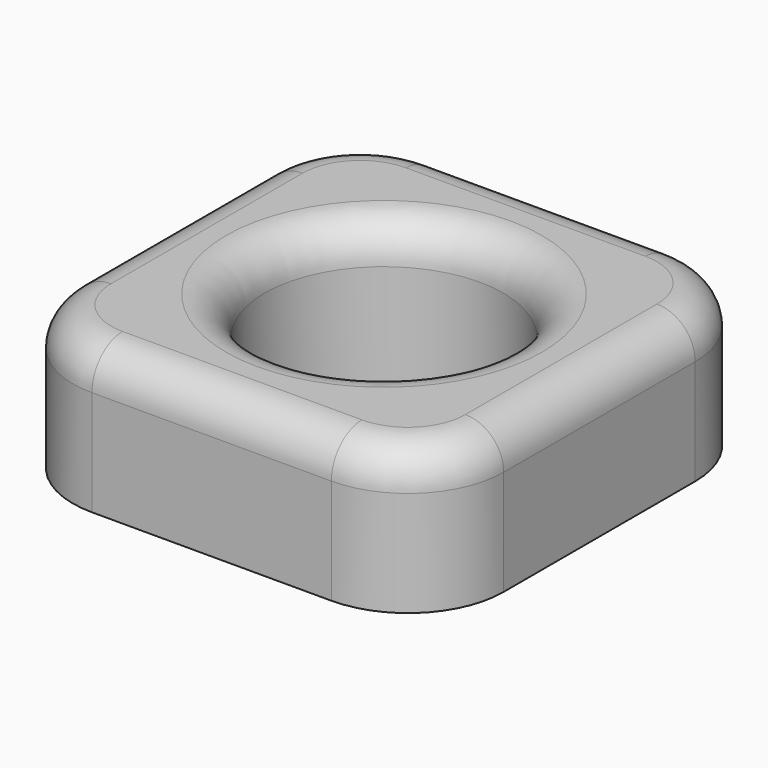
from build123d import *

# Parameters (mm, degrees)
F0_W     = 28.575
F0_H     = 28.575
F1_DEPTH = 9.525
F2_R     = 7.9375
F3_DEPTH = 9.526
F4_R     = 6.35
F5_R     = 2.54


with BuildPart() as f1:
    # F0 (on Top) → F1 (new body)
    with BuildSketch(Plane.XY):
        Rectangle(F0_W, F0_H)
    extrude(amount=F1_DEPTH)

    # F2 (on face) → F3 (cut, through all)
    with BuildSketch(Plane.XY.offset(9.525)):
        Circle(F2_R)
    extrude(amount=-F3_DEPTH, mode=Mode.SUBTRACT)

    # F4
    f4_edges = [f1.edges().sort_by_distance(p)[0] for p in [
        (-14.2875, -14.2875, 4.7625),
        (-14.2875, 14.2875, 4.7625),
        (14.2875, -14.2875, 4.7625),
        (14.2875, 14.2875, 4.7625),
    ]]
    fillet(f4_edges, radius=F4_R)

    # F5
    f5_edges = [f1.edges().sort_by_distance(p)[0] for p in [
        (-7.9375, 0, 9.525),
        (0, -14.2875, 9.525),
    ]]
    fillet(f5_edges, radius=F5_R)


solid = f1.part
